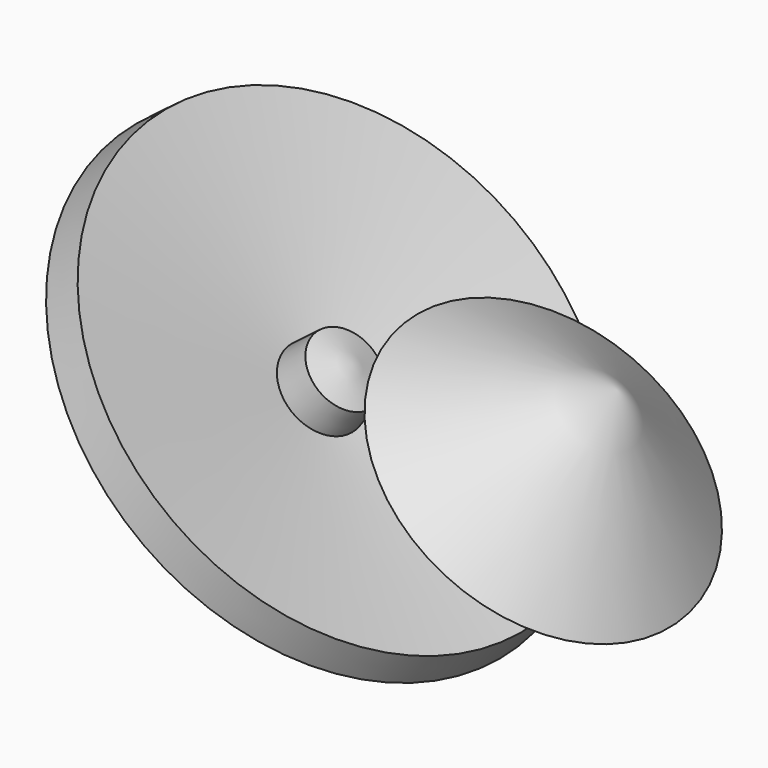
from build123d import *


with BuildPart() as f1:
    # F0 (on Front) → F1 (revolve)
    with BuildSketch(Plane.XZ):
        Polygon((33.4534868598, 43.1100986898), (-36.2842865288, 43.9511463046), (0, 0), align=None)
    revolve(axis=Axis((16.7267434299, 0, 21.5550493449), (0.6130656985, 0, 0.7900319293)))


with BuildPart() as f3:
    # F2 (on Front) → F3 (revolve)
    with BuildSketch(Plane.XZ):
        Polygon((-7.5580657161, -52.8982158507), (0, -42.3277616501), (-59.1981709003, 0), align=None)
    revolve(axis=Axis((-69.4477334619, 0, 10.5459876359), (-0.6969566993, 0, -0.7171132123)))


with BuildPart() as f3b:
    # F2 (on Front) → F3, piece 2 (revolve)
    with BuildSketch(Plane.XZ):
        Polygon((-69.8737586331, -9.5474188415), (-59.1981709003, 0), (-52.3788214959, 9.5373106382), (-59.1981709003, 21.0919752717), (-79.6972960234, 0), align=None)
    revolve(axis=Axis((-69.4477334619, 0, 10.5459876359), (-0.6969566993, 0, -0.7171132123)))


solid = Compound([f1.part, f3.part, f3b.part])
